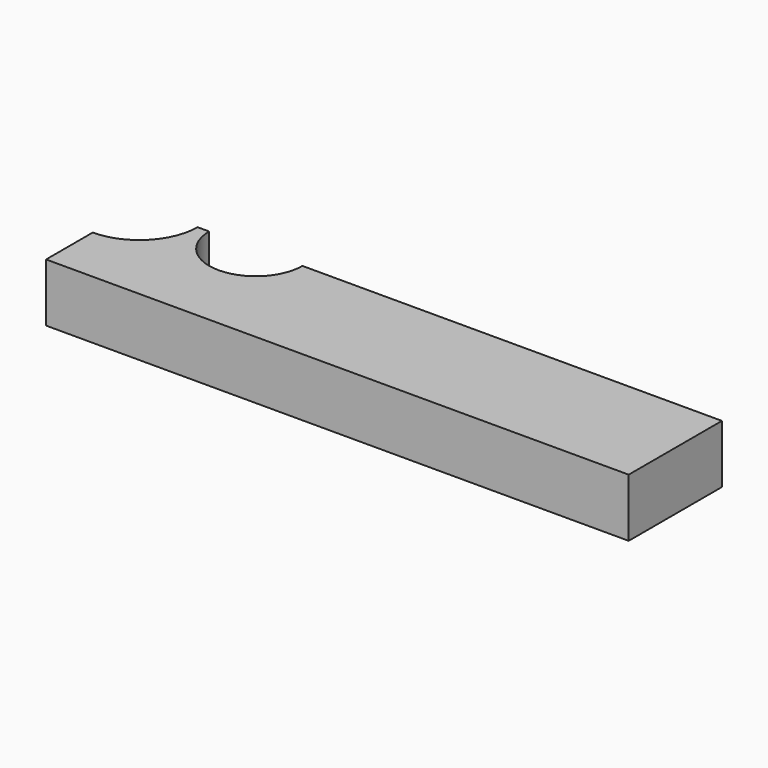
from build123d import *

# Parameters (mm, degrees)
SKETCH_W      = 50
SKETCH_H      = 10
PAD_DEPTH     = 5
SKETCH001_R   = 5
SKETCH001_R_2 = 4
POCKET_DEPTH  = 5.001


with BuildPart() as part:
    # Sketch → Pad (new body)
    with BuildSketch(Plane.XY):
        with Locations((25, 5)):
            Rectangle(SKETCH_W, SKETCH_H)
    extrude(amount=PAD_DEPTH)

    # Sketch001 → Pocket (cut, through all)
    with BuildSketch(Plane.XY):
        with Locations((0, 10)):
            Circle(SKETCH001_R)
        with Locations((10, 10)):
            Circle(SKETCH001_R_2)
    extrude(amount=POCKET_DEPTH, mode=Mode.SUBTRACT)


solid = part.part
